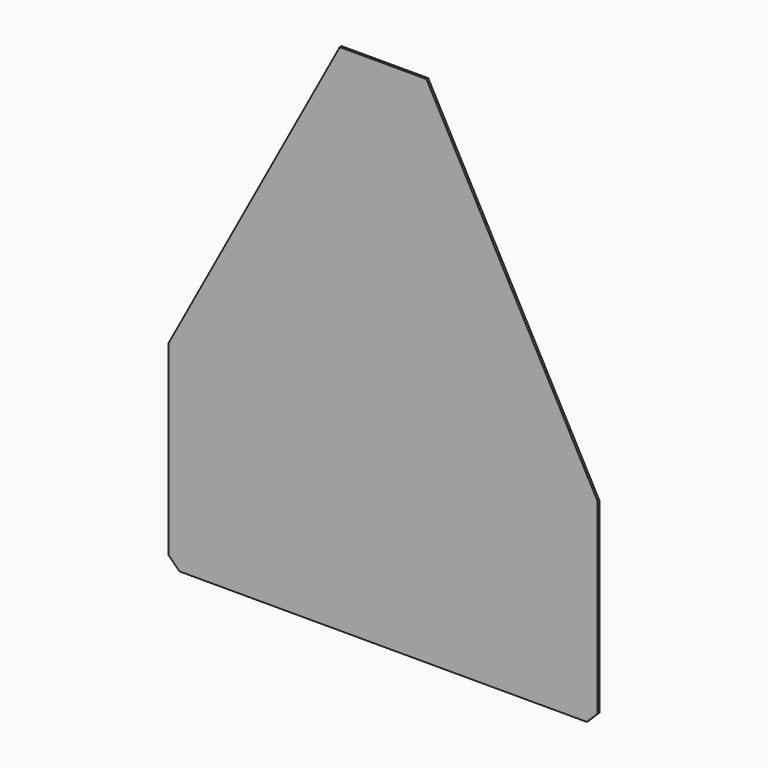
from build123d import *

# Parameters (mm, degrees)
F1_DEPTH = 1


with BuildPart() as f1:
    # F0 (on Front) → F1 (new body)
    with BuildSketch(Plane.XZ):
        Polygon((-99, -10.917237), (-99, -21.99959), (-14, 135.00041), (-20, 135.00041), align=None)
        Polygon((-99, -96.99959), (-94, -101.99959), (0, -101.99959), (94, -101.99959), (99, -96.99959), (99, -21.99959), (14, 135.00041), (-14, 135.00041), (-99, -21.99959), align=None)
        Polygon((14, 135.00041), (99, -21.99959), (99, -10.917237), (20, 135.00041), align=None)
    extrude(amount=F1_DEPTH)


solid = f1.part
